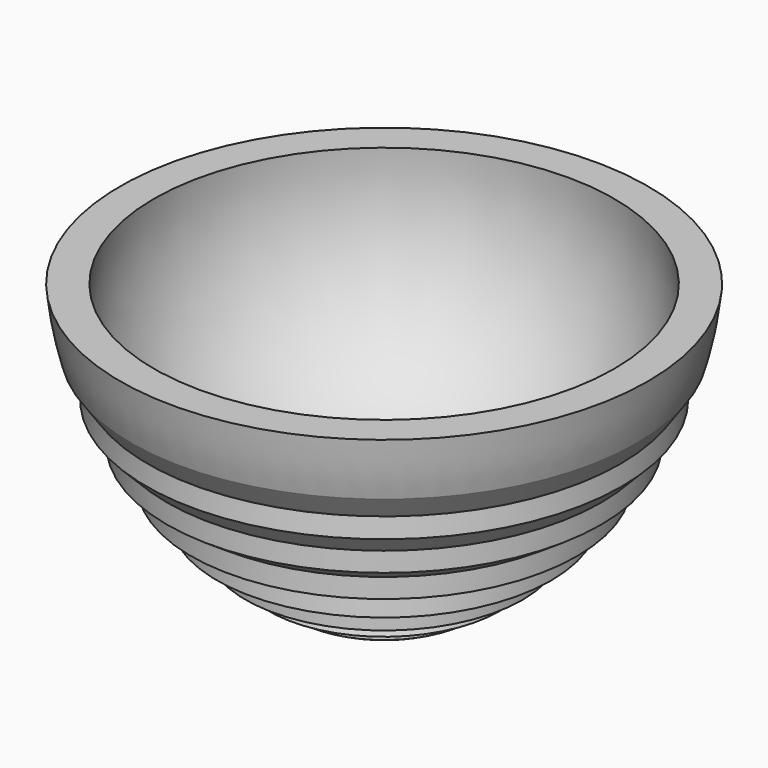
from build123d import *


with BuildPart() as f2:
    # F2: sweep along a path in F1
    with BuildLine(Plane.XY) as f2_path:
        CenterArc((-28.524276, 0), 52.719816, 0, 360)
    # F0 (on Front) → F2 (sweep)
    with BuildSketch(Plane.XZ):
        with BuildLine():
            ThreePointArc((23.497345, 33.700748), (24.892546, 39.610273), (25.78449, 45.616395))
            Line((25.78449, 45.616395), (18.83586, 45.616395))
            ThreePointArc((18.83586, 45.616395), (7.066693, 11.287867), (-27.423091, 0))
            Line((-27.423091, 0), (-27.423091, -10.079539))
            Line((-27.423091, -10.079539), (-11.477968, -10.079539))
            ThreePointArc((-11.477968, -10.079539), (-10.902818, -9.764367), (-10.330566, -9.443965))
            Line((-10.330566, -9.443965), (-10.812017, -5.473045))
            Line((-10.812017, -5.473045), (-4.835033, -5.998081))
            Line((-4.835033, -5.998081), (-5.997523, -2.17073))
            Line((-5.997523, -2.17073), (0, -2.343119))
            Line((0, -2.343119), (0, 1.656881))
            Line((0, 1.656881), (5.838861, 3.038078))
            Line((5.838861, 3.038078), (5.547977, 7.027487))
            Line((5.547977, 7.027487), (11.154171, 9.16538))
            Line((11.154171, 9.16538), (11.154171, 13.16538))
            Line((11.154171, 13.16538), (16.138104, 16.506101))
            Line((16.138104, 16.506101), (16.138104, 20.506101))
            Line((16.138104, 20.506101), (20.344956, 24.784231))
            Line((20.344956, 24.784231), (20.071588, 28.774879))
            Line((20.071588, 28.774879), (23.497345, 33.700748))
        make_face()
    sweep(path=f2_path.line)


solid = f2.part
